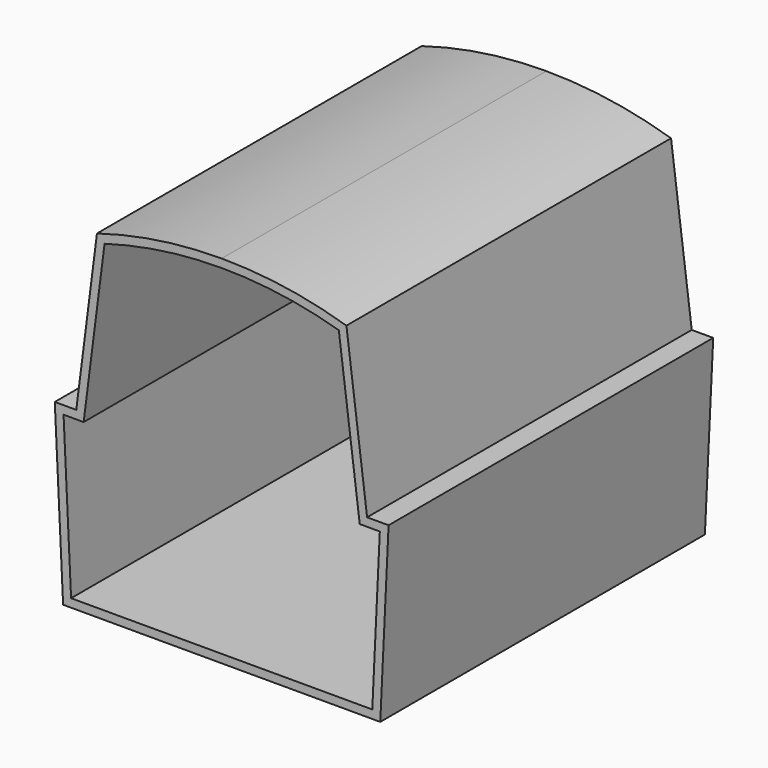
from build123d import *

# Parameters (mm, degrees)
F1_DEPTH = 2425


with BuildPart() as f1:
    # F0 (on Front) → F1 (new body)
    with BuildSketch(Plane.XZ):
        with BuildLine():
            Line((-947.689862, -50), (0, -50))
            Line((0, -50), (947.689862, -50))
            Line((947.689862, -50), (997.422043, 1000.935855))
            Line((997.422043, 1000.935855), (869.022149, 1000.935855))
            Line((869.022149, 1000.935855), (745.39701, 1969.219969))
            ThreePointArc((745.39701, 1969.219969), (376.791176, 2052.14512), (0, 2079.988458))
            ThreePointArc((0, 2079.988458), (-376.791176, 2052.14512), (-745.39701, 1969.219969))
            Line((-745.39701, 1969.219969), (-869.022149, 1000.935855))
            Line((-869.022149, 1000.935855), (-997.422043, 1000.935855))
            Line((-997.422043, 1000.935855), (-947.689862, -50))
        make_face()
        with BuildLine():
            Line((900, 0), (0, 0))
            Line((0, 0), (-900, 0))
            Line((-900, 0), (-945, 950.935855))
            Line((-945, 950.935855), (-825, 950.935855))
            Line((-825, 950.935855), (-700, 1929.988458))
            ThreePointArc((-700, 1929.988458), (-353.553391, 2004.862192), (0, 2029.988458))
            ThreePointArc((0, 2029.988458), (353.553391, 2004.862192), (700, 1929.988458))
            Line((700, 1929.988458), (825, 950.935855))
            Line((825, 950.935855), (945, 950.935855))
            Line((945, 950.935855), (900, 0))
        make_face(mode=Mode.SUBTRACT)
    extrude(amount=F1_DEPTH)


solid = f1.part
